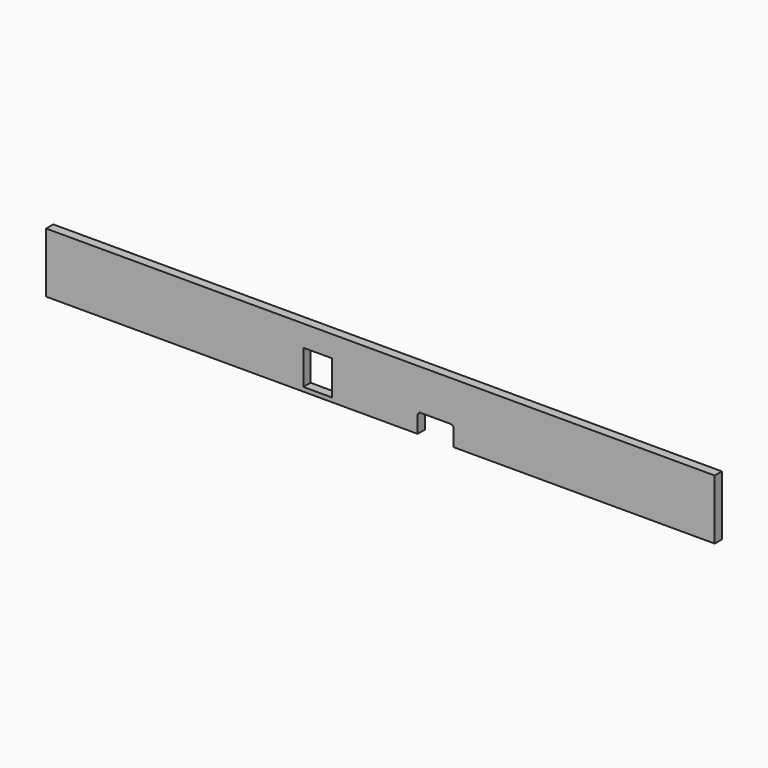
from build123d import *

# Parameters (mm, degrees)
SKETCH021_W     = 223
SKETCH021_H     = 3
PAD022_DEPTH    = 20
SKETCH022_W     = 9.5
SKETCH022_H     = 11.5
POCKET_DEPTH    = 3.001
POCKET001_DEPTH = 3.001


with BuildPart() as part:
    # Sketch021 → Pad022 (new body)
    with BuildSketch(Plane.XY):
        with Locations((0, -44.689828)):
            Rectangle(SKETCH021_W, SKETCH021_H)
    extrude(amount=PAD022_DEPTH)

    # Sketch022 (on Face3 of Pad022) → Pocket (cut, through all)
    with BuildSketch(Plane(origin=(0, -43.189828, 0), x_dir=(-1, 0, 0), z_dir=(0, 1, 0))):
        with Locations((20.955, 7.15)):
            Rectangle(SKETCH022_W, SKETCH022_H)
    extrude(amount=-POCKET_DEPTH, mode=Mode.SUBTRACT)

    # Sketch023 (on Face10 of Pocket) → Pocket001 (cut, through all)
    with BuildSketch(Plane(origin=(0, -43.189828, 0), x_dir=(-1, 0, 0), z_dir=(0, 1, 0))):
        with BuildLine():
            Line((-23.415, 6.5), (-13.415, 6.5))
            ThreePointArc((-12.415, 5.5), (-12.707893, 6.207107), (-13.415, 6.5))
            Line((-12.415, 5.5), (-12.415, -0.5))
            ThreePointArc((-13.415, -1.5), (-12.707893, -1.207107), (-12.415, -0.5))
            Line((-13.415, -1.5), (-23.415, -1.5))
            ThreePointArc((-24.415, -0.5), (-24.122107, -1.207107), (-23.415, -1.5))
            Line((-24.415, -0.5), (-24.415, 5.5))
            ThreePointArc((-23.415, 6.5), (-24.122107, 6.207107), (-24.415, 5.5))
        make_face()
    extrude(amount=-POCKET001_DEPTH, mode=Mode.SUBTRACT)


with BuildPart() as part_1:
    # Body013 placement: moved
    add(part.part.moved(Location((0, 88.392, 0))))


solid = part_1.part
